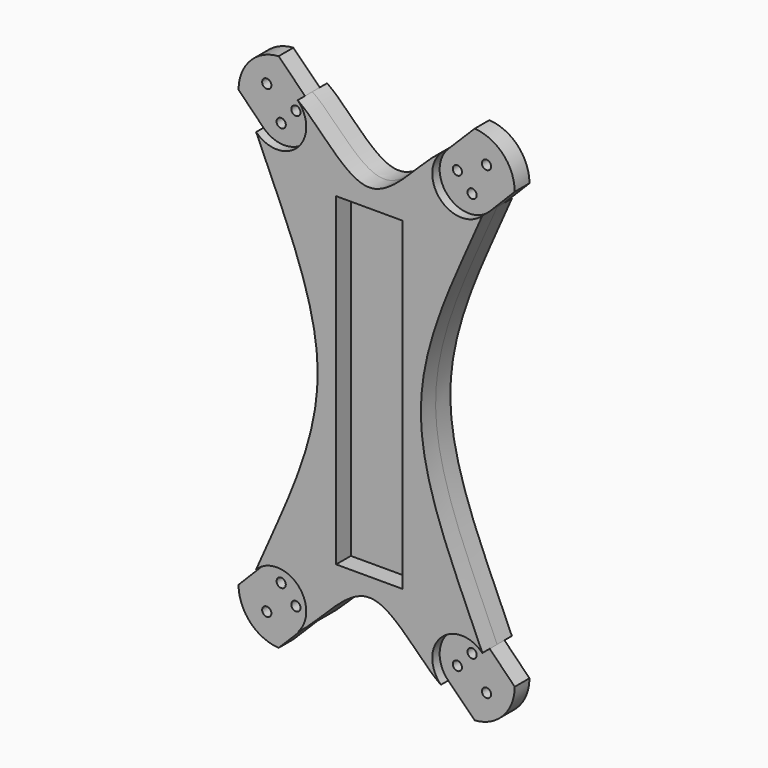
from build123d import *

# Parameters (mm, degrees)
F1_DEPTH = 5
F2_DEPTH = 5
F0_R     = 1.25
F3_DEPTH = 2.5


with BuildPart() as f1:
    # F0 (on Front) → F1 (new body, symmetric)
    with BuildSketch(Plane.XZ):
        with BuildLine():
            Line((-9, 0), (-9, 44))
            Line((-9, 44), (0, 44))
            Line((0, 44), (0, 49))
            add(Edge.make_bspline(
                [(-19.43566, 63.521571), (-13.189036, 59.186175), (-6.594518, 49), (0, 49)],
                knots=[0, 0, 0, 0, 24.261511, 24.261511, 24.261511, 24.261511], degree=3))
            ThreePointArc((-19.43566, 63.521571), (-19.43566, 52.256946), (-30.700285, 52.256946))
            add(Edge.make_bspline(
                [(-14, 0), (-14, 17.46672), (-23.267117, 34.933441), (-30.700285, 52.256946)],
                knots=[54.860623, 54.860623, 54.860623, 54.860623, 109.721246, 109.721246, 109.721246, 109.721246], degree=3))
            Line((-14, 0), (-9, 0))
        make_face()
        with BuildLine():
            Line((0, 49), (0, 44))
            Line((0, 44), (9, 44))
            Line((9, 44), (9, -44))
            Line((9, -44), (-9, -44))
            Line((-9, -44), (-9, 0))
            Line((-9, 0), (-14, 0))
            add(Edge.make_bspline(
                [(-30.700285, -52.256946), (-23.267117, -34.933441), (-14, -17.46672), (-14, 0)],
                knots=[0, 0, 0, 0, 54.860623, 54.860623, 54.860623, 54.860623], degree=3))
            ThreePointArc((-30.700285, -52.256946), (-24.914376, -49.925447), (-19.222671, -52.478313))
            ThreePointArc((-19.222671, -52.478313), (-17.104161, -58.042855), (-19.43566, -63.521571))
            add(Edge.make_bspline(
                [(-19.43566, -63.521571), (-13.189036, -59.186175), (0, -38.813825), (13.189036, -59.186175), (19.43566, -63.521571)],
                knots=[0, 0, 0, 0, 24.261511, 48.523022, 48.523022, 48.523022, 48.523022], degree=3))
            ThreePointArc((19.43566, -63.521571), (19.43566, -52.256946), (30.700285, -52.256946))
            add(Edge.make_bspline(
                [(30.700285, -52.256946), (23.267117, -34.933441), (4.732883, 0), (23.267117, 34.933441), (30.700285, 52.256946)],
                knots=[0, 0, 0, 0, 54.860623, 109.721246, 109.721246, 109.721246, 109.721246], degree=3))
            ThreePointArc((30.700285, 52.256946), (19.43566, 52.256946), (19.43566, 63.521571))
            add(Edge.make_bspline(
                [(0, 49), (6.594518, 49), (13.189036, 59.186175), (19.43566, 63.521571)],
                knots=[24.261511, 24.261511, 24.261511, 24.261511, 48.523022, 48.523022, 48.523022, 48.523022], degree=3))
        make_face()
    extrude(amount=F1_DEPTH, both=True)

    # F0 (on Front) → F2 (join)
    with BuildSketch(Plane.XZ):
        Polygon((0, 44), (-9, 44), (-9, 0), (-9, -44), (9, -44), (9, 44), align=None)
    extrude(amount=-F2_DEPTH)

    # F0 (on Front) → F3 (join, symmetric)
    with BuildSketch(Plane.XZ):
        with BuildLine():
            ThreePointArc((-30.700285, 52.256946), (-19.43566, 52.256946), (-19.43566, 63.521571))
            Line((-19.43566, 63.521571), (-26.604424, 70.690334))
            ThreePointArc((-26.604424, 70.690334), (-34.333678, 67.072101), (-37.480628, 59.139279))
            Line((-37.480628, 59.139279), (-30.700285, 52.256946))
        make_face()
        with Locations((-29.82286, 63.078503)):
            Circle(F0_R, mode=Mode.SUBTRACT)
        with Locations((-25.908636, 54.921638)):
            Circle(F0_R, mode=Mode.SUBTRACT)
        with Locations((-21.908602, 59.186175)):
            Circle(F0_R, mode=Mode.SUBTRACT)
        with BuildLine():
            Line((26.604424, 70.690334), (19.43566, 63.521571))
            ThreePointArc((19.43566, 63.521571), (19.43566, 52.256946), (30.700285, 52.256946))
            Line((30.700285, 52.256946), (37.480628, 59.139279))
            ThreePointArc((37.480628, 59.139279), (34.333678, 67.072101), (26.604424, 70.690334))
        make_face()
        with Locations((21.908602, 59.186175)):
            Circle(F0_R, mode=Mode.SUBTRACT)
        with Locations((25.908636, 54.921638)):
            Circle(F0_R, mode=Mode.SUBTRACT)
        with Locations((29.82286, 63.078503)):
            Circle(F0_R, mode=Mode.SUBTRACT)
        with BuildLine():
            Line((37.480628, -59.139279), (30.700285, -52.256946))
            ThreePointArc((30.700285, -52.256946), (19.43566, -52.256946), (19.43566, -63.521571))
            Line((19.43566, -63.521571), (26.604424, -70.690334))
            ThreePointArc((26.604424, -70.690334), (34.333678, -67.072101), (37.480628, -59.139279))
        make_face()
        with Locations((21.908602, -59.186175)):
            Circle(F0_R, mode=Mode.SUBTRACT)
        with Locations((25.908636, -54.921638)):
            Circle(F0_R, mode=Mode.SUBTRACT)
        with Locations((29.82286, -63.078503)):
            Circle(F0_R, mode=Mode.SUBTRACT)
        with BuildLine():
            ThreePointArc((-19.222671, -52.478313), (-24.914376, -49.925447), (-30.700285, -52.256946))
            Line((-30.700285, -52.256946), (-37.480628, -59.139279))
            ThreePointArc((-37.480628, -59.139279), (-34.333678, -67.072101), (-26.604424, -70.690334))
            Line((-26.604424, -70.690334), (-19.43566, -63.521571))
            ThreePointArc((-19.43566, -63.521571), (-17.104161, -58.042855), (-19.222671, -52.478313))
        make_face()
        with BuildLine():
            ThreePointArc((-28.57286, -63.078503), (-30.977709, -63.556857), (-28.938977, -62.194619))
            ThreePointArc((-28.938977, -62.194619), (-28.668011, -62.600148), (-28.57286, -63.078503))
        make_face(mode=Mode.SUBTRACT)
        with Locations((-25.908636, -54.921638)):
            Circle(F0_R, mode=Mode.SUBTRACT)
        with Locations((-21.908602, -59.186175)):
            Circle(F0_R, mode=Mode.SUBTRACT)
    extrude(amount=F3_DEPTH, both=True)


solid = f1.part
